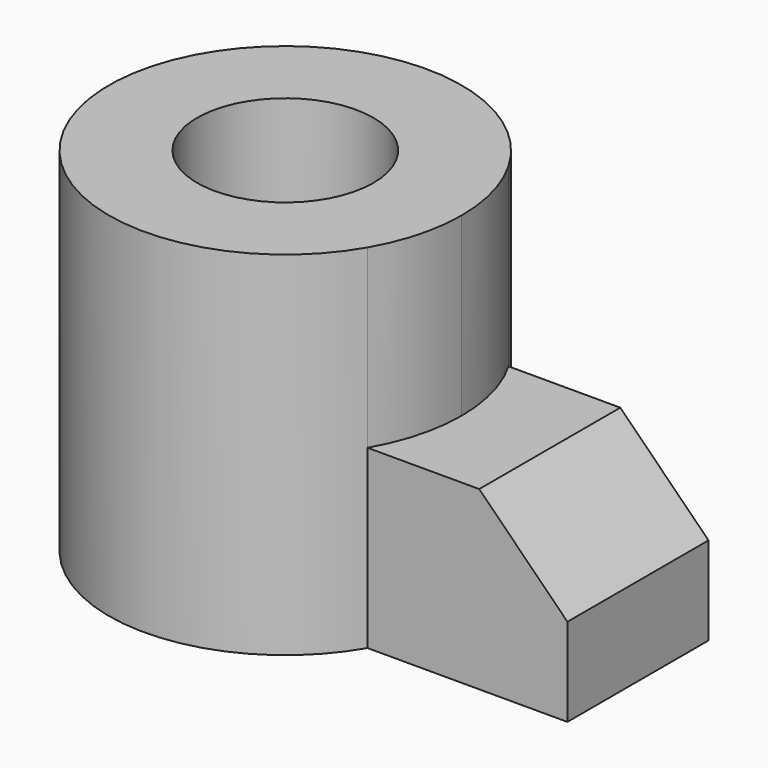
from build123d import *

# Parameters (mm, degrees)
F0_R     = 6.35
F1_DEPTH = 25.4
F0_W     = 6.35
F0_H     = 6.35
F2_DEPTH = 12.7
F3_SIZE  = 6.35


with BuildPart() as f1:
    # F0 (on Top) → F1 (new body)
    with BuildSketch(Plane.XY):
        with BuildLine():
            ThreePointArc((10.9985226281, -6.35), (12.2672579939, -3.2870018728), (12.7, 0))
            ThreePointArc((12.7, 0), (12.2672579939, 3.2870018728), (10.9985226281, 6.35))
            ThreePointArc((10.9985226281, 6.35), (-12.7, 0), (10.9985226281, -6.35))
        make_face()
        Circle(F0_R, mode=Mode.SUBTRACT)
    extrude(amount=F1_DEPTH)

    # F0 (on Top) → F2 (join)
    with BuildSketch(Plane.XY):
        with BuildLine():
            Line((19.05, 0), (12.7, 0))
            ThreePointArc((12.7, 0), (12.2672579939, -3.2870018728), (10.9985226281, -6.35))
            Line((10.9985226281, -6.35), (19.05, -6.35))
            Line((19.05, -6.35), (19.05, 0))
        make_face()
        with BuildLine():
            ThreePointArc((10.9985226281, 6.35), (12.2672579939, 3.2870018728), (12.7, 0))
            Line((12.7, 0), (19.05, 0))
            Line((19.05, 0), (19.05, 6.35))
            Line((19.05, 6.35), (10.9985226281, 6.35))
        make_face()
        with Locations((22.225, 3.175)):
            Rectangle(F0_W, F0_H)
        with Locations((22.225, -3.175)):
            Rectangle(F0_W, F0_H)
    extrude(amount=F2_DEPTH)

    # F3
    f3_edges = [f1.edges().sort_by_distance(p)[0] for p in [
        (25.4, 0, 12.7),
    ]]
    chamfer(f3_edges, length=F3_SIZE)


solid = f1.part
